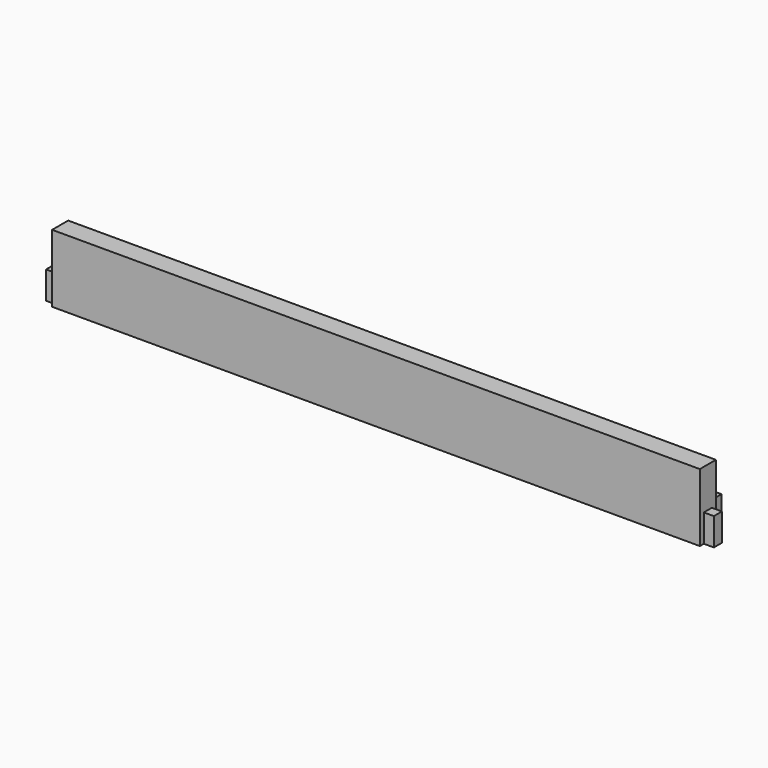
from build123d import *

# Parameters (mm, degrees)
F0_W      = 844.55
F0_H      = 85.725
F1_DEPTH  = 25.4
F2_W      = 12.7
F2_H      = 50.8
F3_DEPTH  = 25.401
F4_W      = 12.7
F4_H      = 6.35
F5_DEPTH  = 85.726
F6_R      = 4.564063
F7_DEPTH  = 50.8
F8_R      = 12.7
F9_DEPTH  = 19.05
F10_W     = 812.8
F10_H     = 25.4
F11_DEPTH = 12.7


with BuildPart() as f1:
    # F0 (on Front) → F1 (new body)
    with BuildSketch(Plane.XZ):
        with Locations((422.275, 42.8625)):
            Rectangle(F0_W, F0_H)
    extrude(amount=F1_DEPTH)

    # F2 (on face) → F3 (cut, through all)
    with BuildSketch(Plane.XZ.offset(25.4)):
        with Locations((6.35, 60.325)):
            Rectangle(F2_W, F2_H)
        with Locations((838.2, 60.325)):
            Rectangle(F2_W, F2_H)
    extrude(amount=-F3_DEPTH, mode=Mode.SUBTRACT)

    # F4 (on face) → F5 (cut, through all)
    with BuildSketch(Plane(origin=(0, 0, 0), x_dir=(1, 0, 0), z_dir=(0, 0, -1))):
        with Locations((838.2, 22.225)):
            Rectangle(F4_W, F4_H)
        with Locations((838.2, 3.175)):
            Rectangle(F4_W, F4_H)
        with Locations((6.35, 22.225)):
            Rectangle(F4_W, F4_H)
        with Locations((6.35, 3.175)):
            Rectangle(F4_W, F4_H)
    extrude(amount=-F5_DEPTH, mode=Mode.SUBTRACT)

    # F6 (on face) → F7 (cut)
    with BuildSketch(Plane(origin=(12.7, 0, 0), x_dir=(0, -1, 0), z_dir=(-1, 0, 0))):
        with Locations((12.7, 60.325)):
            Circle(F6_R)
    extrude(amount=-F7_DEPTH, mode=Mode.SUBTRACT)

    # F8 (on face) → F9 (cut)
    with BuildSketch(Plane(origin=(0, 0, 0), x_dir=(-1, 0, 0), z_dir=(0, 1, 0))):
        with Locations((-66.675, 60.325)):
            Circle(F8_R)
        with Locations((-777.875, 60.325)):
            Circle(F8_R)
    extrude(amount=-F9_DEPTH, mode=Mode.SUBTRACT)

    # F10 (on face) → F11 (join)
    with BuildSketch(Plane(origin=(0, 0, 0), x_dir=(-1, 0, 0), z_dir=(0, 1, 0))):
        with Locations((-422.275, 28.575)):
            Rectangle(F10_W, F10_H)
    extrude(amount=F11_DEPTH)


solid = f1.part
